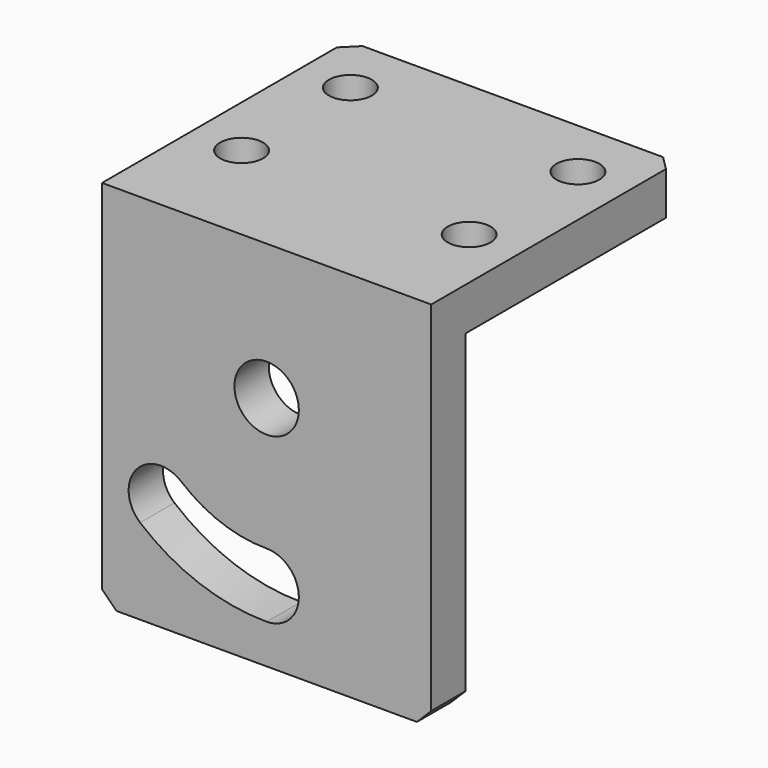
from build123d import *

# Parameters (mm, degrees)
F1_DEPTH = 46
F2_R     = 3
F3_DEPTH = 25
F4_R     = 4.5
F5_DEPTH = 25
F6_SIZE  = 2


with BuildPart() as f1:
    # F0 (on Right) → F1 (new body)
    with BuildSketch(Plane.YZ):
        Polygon((43, 0), (0, 0), (0, -52), (6, -52), (6, -6), (43, -6), align=None)
    extrude(amount=F1_DEPTH)

    # F2 (on Top) → F3 (cut)
    with BuildSketch(Plane.XY):
        with Locations((38.9, 15.5)):
            Circle(F2_R)
        with Locations((38.9, 34.5)):
            Circle(F2_R)
        with Locations((7.1, 15.5)):
            Circle(F2_R)
        with Locations((7.1, 34.5)):
            Circle(F2_R)
    extrude(amount=-F3_DEPTH, mode=Mode.SUBTRACT)

    # F4 (on face) → F5 (cut)
    with BuildSketch(Plane.XZ):
        with Locations((23, -19)):
            Circle(F4_R)
        with BuildLine():
            ThreePointArc((23, -37.5), (16.672627, -36.384313), (11.108429, -33.171822))
            ThreePointArc((11.108429, -33.171822), (4.768685, -33.726478), (5.323341, -40.066222))
            ThreePointArc((5.323341, -40.066222), (13.594446, -44.841547), (23, -46.5))
            ThreePointArc((23, -46.5), (27.5, -42), (23, -37.5))
        make_face()
    extrude(amount=-F5_DEPTH, mode=Mode.SUBTRACT)

    # F6
    f6_edges = [f1.edges().sort_by_distance(p)[0] for p in [
        (0, 43, -3),
        (46, 43, -3),
        (46, 3, -52),
        (0, 3, -52),
    ]]
    chamfer(f6_edges, length=F6_SIZE)


solid = f1.part
